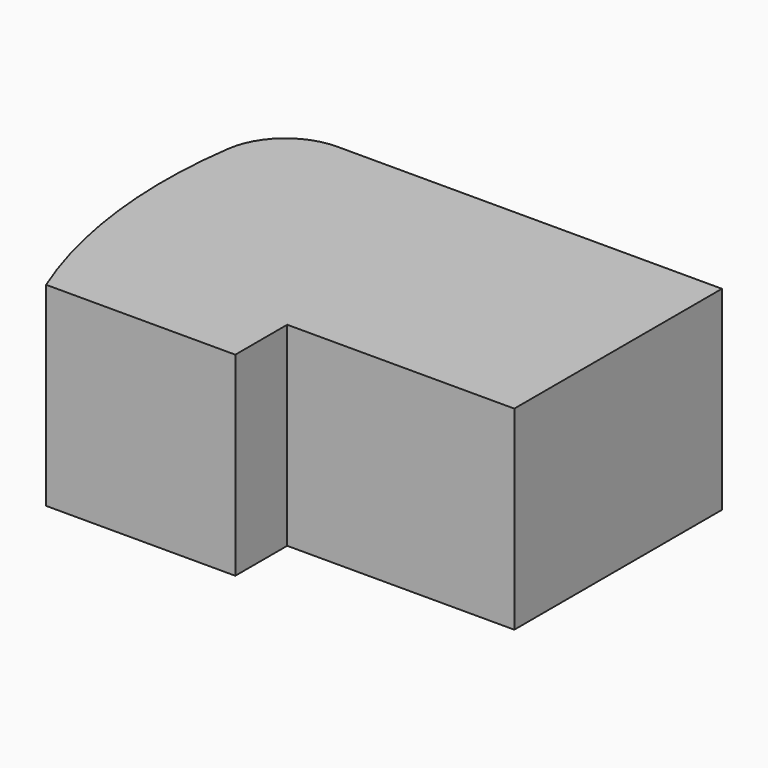
from build123d import *

# Parameters (mm, degrees)
F1_DEPTH = 38.1
F2_R     = 12.7


with BuildPart() as f1:
    # F0 (on Top) → F1 (new body)
    with BuildSketch(Plane.XY):
        with BuildLine():
            ThreePointArc((3.226223, 63.5), (0.220256, 31.413637), (7.414279, 0))
            Line((7.414279, 0), (44.45, 0))
            Line((44.45, 0), (44.45, 12.7))
            Line((44.45, 12.7), (88.9, 12.7))
            Line((88.9, 12.7), (88.9, 63.5))
            Line((88.9, 63.5), (3.226223, 63.5))
        make_face()
    extrude(amount=F1_DEPTH)

    # F2
    f2_edges = [f1.edges().sort_by_distance(p)[0] for p in [
        (3.226223, 63.5, 19.05),
    ]]
    fillet(f2_edges, radius=F2_R)


solid = f1.part
